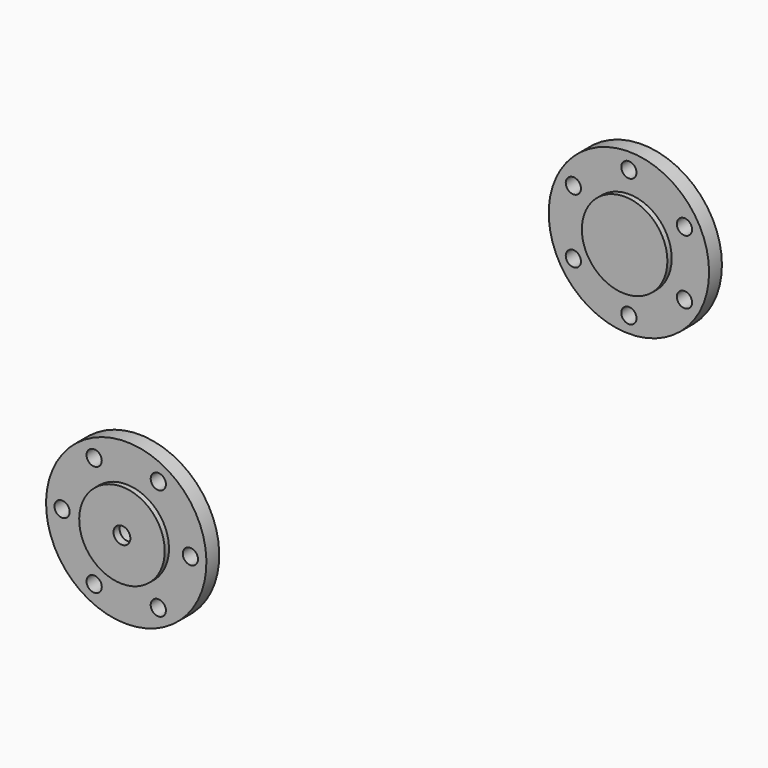
from build123d import *

# Parameters (mm, degrees)
F0_R          = 11.90625
F0_R_2        = 6.35
F1_DEPTH      = 2.38125
F2_DEPTH      = 3.175
F3_D          = 2.2606
F5_R          = 11.90625
F5_R_2        = 6.35
F6_DEPTH      = 2.38125
F5_R_3        = 3.96875
F7_DEPTH      = 3.175
F8_DEPTH      = 4.7625
F8_DEPTH_BACK = 3.175
F9_D          = 2.2606
F11_D         = 4.0386
F11_DEPTH     = 6.35
F11_TIP       = 1.213317848
F10_R         = 1.2489437673
F12_DEPTH     = 7.9385
F13_ANGLE     = 30


with BuildPart() as f1:
    # F0 (on Front) → F1 (new body)
    with BuildSketch(Plane.XZ):
        Circle(F0_R)
        Circle(F0_R_2, mode=Mode.SUBTRACT)
    extrude(amount=F1_DEPTH)

    # F0 (on Front) → F2 (join)
    with BuildSketch(Plane.XZ):
        Circle(F0_R_2)
    extrude(amount=F2_DEPTH)

    # F3 (through all)
    with Locations(Plane(origin=(0, 0, 0), x_dir=(1, 0, 0), z_dir=(0, 1, 0))):
        with Locations((0, -9.525), (-8.248891971, -4.7625), (-8.248891971, 4.7625), (0, 9.525), (8.248891971, 4.7625), (8.248891971, -4.7625)):
            Hole(F3_D / 2)


with BuildPart() as f1_1:
    # F4: moved
    add(f1.part.moved(Location((0, 93.29625, 0))))


with BuildPart() as f6:
    # F5 (on Front) → F6 (new body)
    with BuildSketch(Plane.XZ):
        Circle(F5_R)
        Circle(F5_R_2, mode=Mode.SUBTRACT)
    extrude(amount=F6_DEPTH)

    # F5 (on Front) → F7 (join)
    with BuildSketch(Plane.XZ):
        Circle(F5_R_2)
        Circle(F5_R_3, mode=Mode.SUBTRACT)
    extrude(amount=F7_DEPTH)

    # F5 (on Front) → F8 (join, two sides)
    with BuildSketch(Plane.XZ) as f8_sk:
        Circle(F5_R_3)
    extrude(amount=-F8_DEPTH)
    extrude(f8_sk.sketch, amount=F8_DEPTH_BACK)

    # F9 (through all)
    with Locations(Plane(origin=(0, 0, 0), x_dir=(1, 0, 0), z_dir=(0, 1, 0))):
        with Locations((0, -9.525), (-8.248891971, -4.7625), (-8.248891971, 4.7625), (0, 9.525), (8.248891971, 4.7625), (8.248891971, -4.7625)):
            Hole(F9_D / 2)

    # F11
    with Locations(Plane(origin=(0, 4.7625, 0), x_dir=(-1, 0, 0), z_dir=(0, 1, 0))):
        with Locations((0, 0)):
            Hole(F11_D / 2, depth=F11_DEPTH)
            with Locations((0, 0, -(F11_DEPTH + F11_TIP / 2))):  # 118° drill point
                Cone(0, F11_D / 2, F11_TIP, mode=Mode.SUBTRACT)

    # F10 (on face) → F12 (cut, through all)
    with BuildSketch(Plane(origin=(0, 4.7625, 0), x_dir=(-1, 0, 0), z_dir=(0, 1, 0))):
        Circle(F10_R)
    extrude(amount=-F12_DEPTH, mode=Mode.SUBTRACT)


with BuildPart() as f6_1:
    # F13: moved
    add(f6.part.rotate(Axis((0, 0, 0), (0, -1, 0)), F13_ANGLE))


solid = Compound([f1_1.part, f6_1.part])
